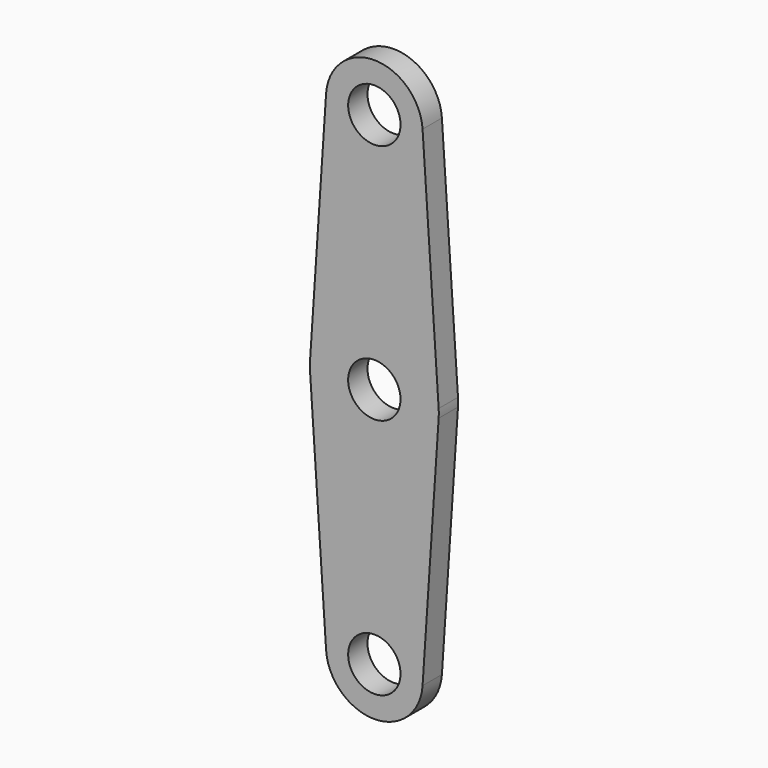
from build123d import *

# Parameters (mm, degrees)
F3_DEPTH = 1.5
F4_R     = 3.25
F5_DEPTH = 3
F6_COUNT = 2
F7_R     = 3.25
F8_DEPTH = 25


with BuildPart() as f3:
    # F2 (on Front) → F3 (new body, symmetric)
    with BuildSketch(Plane.XZ):
        with BuildLine():
            Line((-5.9866518188, 30.4), (-7.9822024251, 0.5333333333))
            ThreePointArc((-7.9822024251, 0.5333333333), (0, -8), (7.9822024251, 0.5333333333))
            Line((7.9822024251, 0.5333333333), (5.9866518188, 30.4))
            ThreePointArc((5.9866518188, 30.4), (0, 36), (-5.9866518188, 30.4))
        make_face()
    extrude(amount=F3_DEPTH, both=True)

    # F4 (on face) → F5 (cut, through all)
    with BuildSketch(Plane.XZ.offset(1.5)):
        with Locations((0, 30)):
            Circle(F4_R)
    extrude(amount=-F5_DEPTH, mode=Mode.SUBTRACT)

    # F6: F3 ×2 about axis
    f6_axis = Axis((0, 0, 0), (0, -1, 0))


with BuildPart() as f3_1:
    add(f3.part)
    for i in range(1, F6_COUNT):
        add(f3.part.rotate(f6_axis, i * 360 / F6_COUNT))

    # F7 (on face) → F8 (cut)
    with BuildSketch(Plane.XZ.offset(1.5)):
        Circle(F7_R)
    extrude(amount=-F8_DEPTH, mode=Mode.SUBTRACT)


solid = f3_1.part
